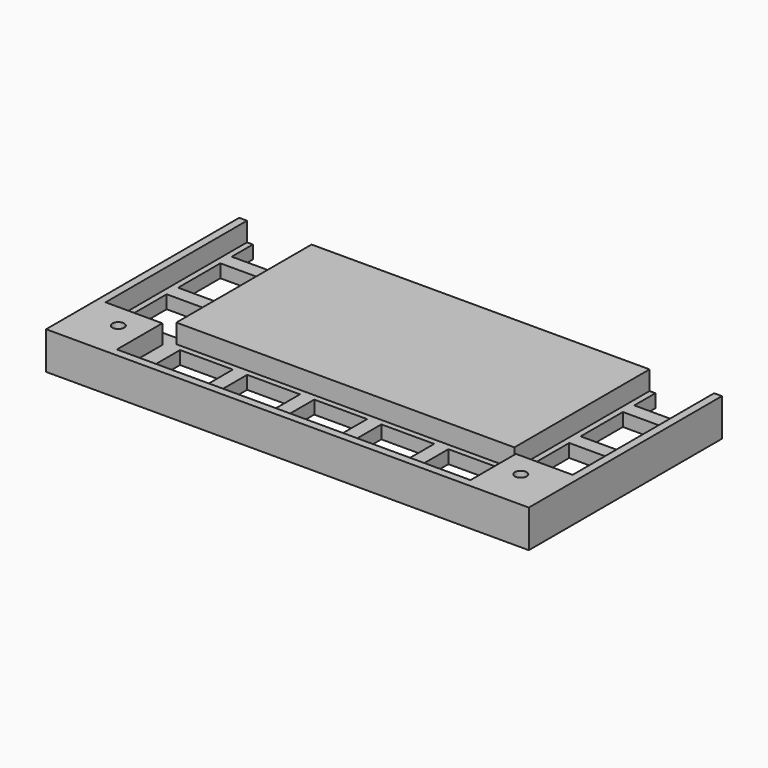
from build123d import *

# Parameters (mm, degrees)
SKETCH_W        = 82.25
SKETCH_H        = 82.25
PAD_DEPTH       = 11
PAD001_DEPTH    = 1.8
POCKET_DEPTH    = 6.5
SKETCH003_W     = 18
SKETCH003_H     = 18
SKETCH003_W_2   = 9
SKETCH003_H_2   = 9
POCKET001_DEPTH = 5
SKETCH004_R     = 2
POCKET002_DEPTH = 13
POCKET003_DEPTH = 2
SKETCH006_W     = 16.3
SKETCH006_H     = 16.3
POCKET004_DEPTH = 5


with BuildPart() as body:
    # Sketch → Pad (new body)
    with BuildSketch(Plane.XY):
        with Locations((-41.125, 41.125)):
            Rectangle(SKETCH_W, SKETCH_H)
    pad = extrude(amount=PAD_DEPTH)

    # Sketch001 (on Face5 of Pad) → Pad001 (join)
    with BuildSketch(Plane(origin=(0, 0, 0), x_dir=(1, 0, 0), z_dir=(0, 0, -1))):
        Polygon((-82.25, 0), (-82.25, -82.25), (0, -82.25), (0, -81.05), (-81.05, -81.05), (-81.05, 0), align=None)
    pad001 = extrude(amount=PAD001_DEPTH)

    # Sketch002 (on Face6 of Pad001) → Pocket (cut)
    with BuildSketch(Plane(origin=(0, 0, 11), x_dir=(0, -1, 0), z_dir=(0, 0, 1))):
        Polygon((-79.584, 0), (-79.584, -60.25), (-60.25, -60.25), (-60.25, -79.584), (0, -79.584), (0, -57.584), (-57.584, -57.584), (-57.584, 0), align=None)
    pocket = extrude(amount=-POCKET_DEPTH, mode=Mode.SUBTRACT)

    # Sketch003 (on Face7 of Pocket) → Pocket001 (cut)
    with BuildSketch(Plane.XY.offset(4.5)):
        with Locations((-45.72, 68.584)):
            Rectangle(SKETCH003_W, SKETCH003_H)
        with Locations((-22.86, 68.584)):
            Rectangle(SKETCH003_W, SKETCH003_H)
        with Locations((-4.5, 68.584)):
            Rectangle(SKETCH003_W_2, SKETCH003_H)
        with Locations((-68.584, 4.5)):
            Rectangle(SKETCH003_W, SKETCH003_H_2)
        with Locations((-68.584, 22.86)):
            Rectangle(SKETCH003_W, SKETCH003_H)
        with Locations((-68.584, 45.72)):
            Rectangle(SKETCH003_W, SKETCH003_H)
    pocket001 = extrude(amount=-POCKET001_DEPTH, mode=Mode.SUBTRACT)

    # Sketch004 (on Face2 of Pocket001) → Pocket002 (cut)
    with BuildSketch(Plane(origin=(0, 0, 0), x_dir=(1, 0, 0), z_dir=(0, 0, -1))):
        with Locations((-68.584, -68.584)):
            Circle(SKETCH004_R)
    pocket002 = extrude(amount=-POCKET002_DEPTH, mode=Mode.SUBTRACT)

    # Sketch005 (on Face2 of Pocket002) → Pocket003 (cut)
    with BuildSketch(Plane(origin=(0, 0, 0), x_dir=(1, 0, 0), z_dir=(0, 0, -1))):
        Polygon((-57.74, 0), (-57.74, -57.74), (0, -57.74), (0, -43.74), (-43.74, -43.74), (-43.74, 0), align=None)
    pocket003 = extrude(amount=-POCKET003_DEPTH, mode=Mode.SUBTRACT)

    # Sketch006 (on Face2 of Pocket003) → Pocket004 (cut)
    with BuildSketch(Plane(origin=(0, 0, 0), x_dir=(1, 0, 0), z_dir=(0, 0, -1))):
        with Locations((-8.15, -8.15)):
            Rectangle(SKETCH006_W, SKETCH006_H)
    pocket004 = extrude(amount=-POCKET004_DEPTH, mode=Mode.SUBTRACT)

    # Mirrored: Pad, Pad001, Pocket, Pocket001, Pocket002, Pocket003, Pocket004 across YZ
    add(pad.mirror(Plane.YZ))
    add(pad001.mirror(Plane.YZ))
    add(pocket.mirror(Plane.YZ), mode=Mode.SUBTRACT)
    add(pocket001.mirror(Plane.YZ), mode=Mode.SUBTRACT)
    add(pocket002.mirror(Plane.YZ), mode=Mode.SUBTRACT)
    add(pocket003.mirror(Plane.YZ), mode=Mode.SUBTRACT)
    add(pocket004.mirror(Plane.YZ), mode=Mode.SUBTRACT)


with BuildPart() as part_mirroring:
    # Part__Mirroring: instance of Body
    add(body.part.mirror(Plane(origin=(0, 0, 0), x_dir=(1, 0, 0), z_dir=(0, 1, 0))))


solid = part_mirroring.part
